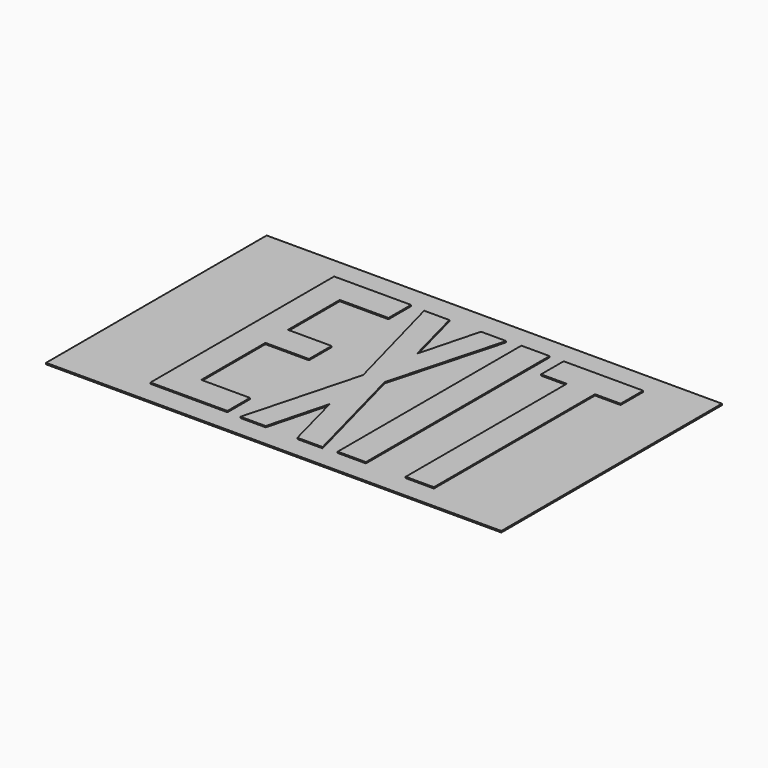
from build123d import *

# Parameters (mm, degrees)
F0_W      = 355
F0_H      = 215
F1_DEPTH  = 1.1
F2_W      = 38
F2_H      = 22
F2_W_2    = 34
F3_DEPTH  = 0.95
F4_W      = 22
F4_H      = 157
F5_DEPTH  = 0.95
F6_W      = 22
F6_H      = 179
F7_DEPTH  = 0.95
F8_W      = 64
F8_H      = 179
F9_DEPTH  = 0.95
F11_DEPTH = 0.95
F13_DEPTH = 0.95
F15_DEPTH = 0.95
F17_DEPTH = 0.95


with BuildPart() as f1:
    # F0 (on Top) → F1 (new body)
    with BuildSketch(Plane.XY):
        Rectangle(F0_W, F0_H)
    extrude(amount=F1_DEPTH)

    # F2 (on face) → F3 (join)
    with BuildSketch(Plane.XY.offset(1.1)):
        Polygon((-88.5, 89.5), (-110.5, 89.5), (-110.5, -89.5), (-88.5, -89.5), (-88.5, -67.5), (-88.5, -4.988748), (-88.5, 17.011252), (-88.5, 67.5), align=None)
        with Locations((-69.5, 78.5)):
            Rectangle(F2_W, F2_H)
        with Locations((-69.5, -78.5)):
            Rectangle(F2_W, F2_H)
        with Locations((-71.5, 6.011252)):
            Rectangle(F2_W_2, F2_H)
    extrude(amount=F3_DEPTH)

    # F4 (on face) → F5 (join)
    with BuildSketch(Plane.XY.offset(1.1)):
        Polygon((130.5, 89.5), (68.5, 89.5), (68.5, 67.5), (88.5, 67.5), (110.5, 67.5), (130.5, 67.5), align=None)
        with Locations((99.5, -11)):
            Rectangle(F4_W, F4_H)
    extrude(amount=F5_DEPTH)

    # F6 (on face) → F7 (join)
    with BuildSketch(Plane.XY.offset(1.1)):
        with Locations((46.5, 0)):
            Rectangle(F6_W, F6_H)
    extrude(amount=F7_DEPTH)

    # F8 (on face) → F9 (join)
    with BuildSketch(Plane.XY.offset(1.1)):
        with Locations((-7.5, -1)):
            Rectangle(F8_W, F8_H)
    extrude(amount=F9_DEPTH)

    # F10 (on face) → F11 (cut)
    with BuildSketch(Plane.XY.offset(2.05)):
        Polygon((-15.5, -1), (-39.5, 88.5), (-39.5, -90.5), align=None)
    extrude(amount=-F11_DEPTH, mode=Mode.SUBTRACT)

    # F12 (on face) → F13 (cut)
    with BuildSketch(Plane.XY.offset(2.05)):
        Polygon((24.5, -90.5), (24.5, 88.5), (0.5, 0), align=None)
    extrude(amount=-F13_DEPTH, mode=Mode.SUBTRACT)

    # F14 (on face) → F15 (cut)
    with BuildSketch(Plane.XY.offset(2.05)):
        Polygon((-7.5, -43.495346), (-19.85, -90.5), (4.85, -90.5), align=None)
    extrude(amount=-F15_DEPTH, mode=Mode.SUBTRACT)

    # F16 (on face) → F17 (cut)
    with BuildSketch(Plane.XY.offset(2.05)):
        Polygon((4.85, 88.5), (-19.85, 88.5), (-7.5, 41.495346), align=None)
    extrude(amount=-F17_DEPTH, mode=Mode.SUBTRACT)


solid = f1.part
